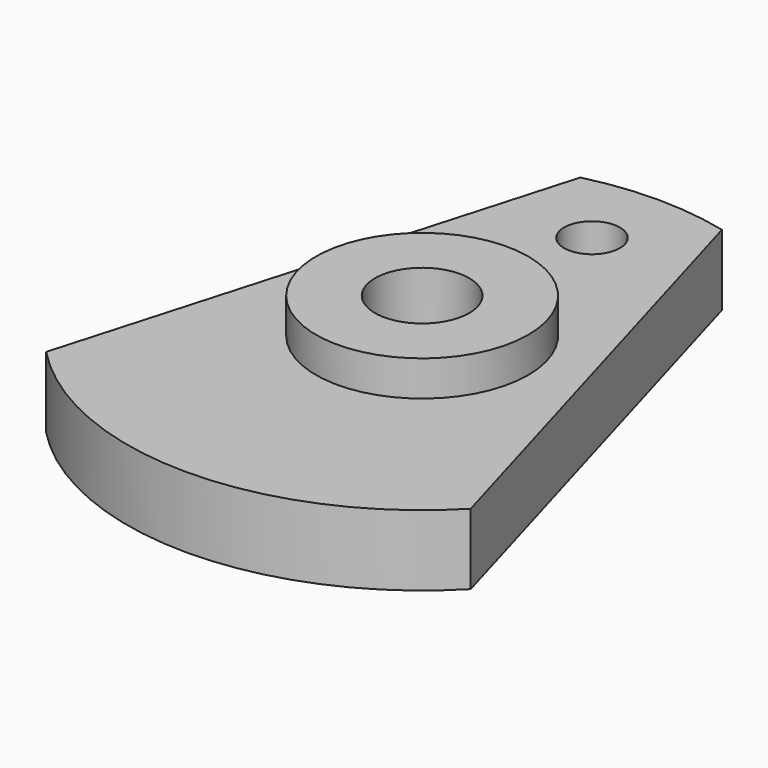
from build123d import *

# Parameters (mm, degrees)
F0_R     = 4.5
F0_R_2   = 1.185
F1_DEPTH = 3
F0_R_3   = 2
F2_DEPTH = 4.5


with BuildPart() as f1:
    # F0 (on Top) → F1 (new body)
    with BuildSketch(Plane.XY):
        with BuildLine():
            Line((-3, 12.134661), (-9, -8.674676))
            ThreePointArc((-9, -8.674676), (0, -12.5), (9, -8.674676))
            Line((9, -8.674676), (3, 12.134661))
            ThreePointArc((3, 12.134661), (0, 12.5), (-3, 12.134661))
        make_face()
        Circle(F0_R, mode=Mode.SUBTRACT)
        with Locations((0, 9)):
            Circle(F0_R_2, mode=Mode.SUBTRACT)
    extrude(amount=F1_DEPTH)

    # F0 (on Top) → F2 (join)
    with BuildSketch(Plane.XY):
        Circle(F0_R)
        Circle(F0_R_3, mode=Mode.SUBTRACT)
    extrude(amount=F2_DEPTH)


solid = f1.part
